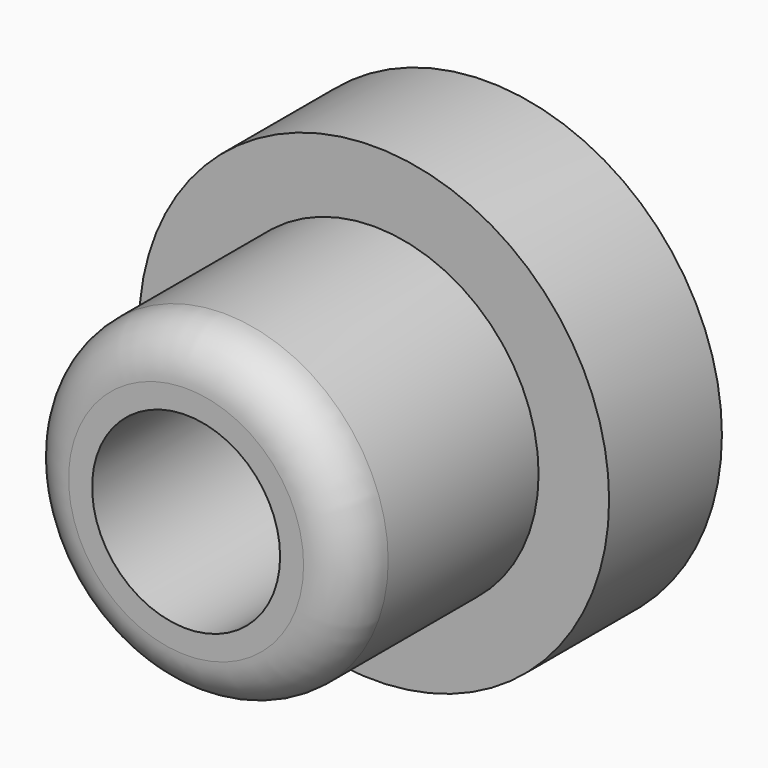
from build123d import *

# Parameters (mm, degrees)
F0_R     = 5
F0_R_2   = 3.5
F1_DEPTH = 3
F2_DEPTH = 5
F3_R     = 2
F4_DEPTH = 5
F5_R     = 1


with BuildPart() as f1:
    # F0 (on Front) → F1 (new body)
    with BuildSketch(Plane.XZ):
        Circle(F0_R)
        Circle(F0_R_2, mode=Mode.SUBTRACT)
    extrude(amount=-F1_DEPTH)


with BuildPart() as f2:
    # F0 (on Front) → F2 (new body)
    with BuildSketch(Plane.XZ):
        Circle(F0_R_2)
    extrude(amount=F2_DEPTH)

    # F3 (on face) → F4 (cut)
    with BuildSketch(Plane.XZ.offset(5)):
        Circle(F3_R)
    extrude(amount=-F4_DEPTH, mode=Mode.SUBTRACT)

    # F5
    f5_edges = [f2.edges().sort_by_distance(p)[0] for p in [
        (-3.5, -5, 0),
    ]]
    fillet(f5_edges, radius=F5_R)


solid = Compound([f1.part, f2.part])
